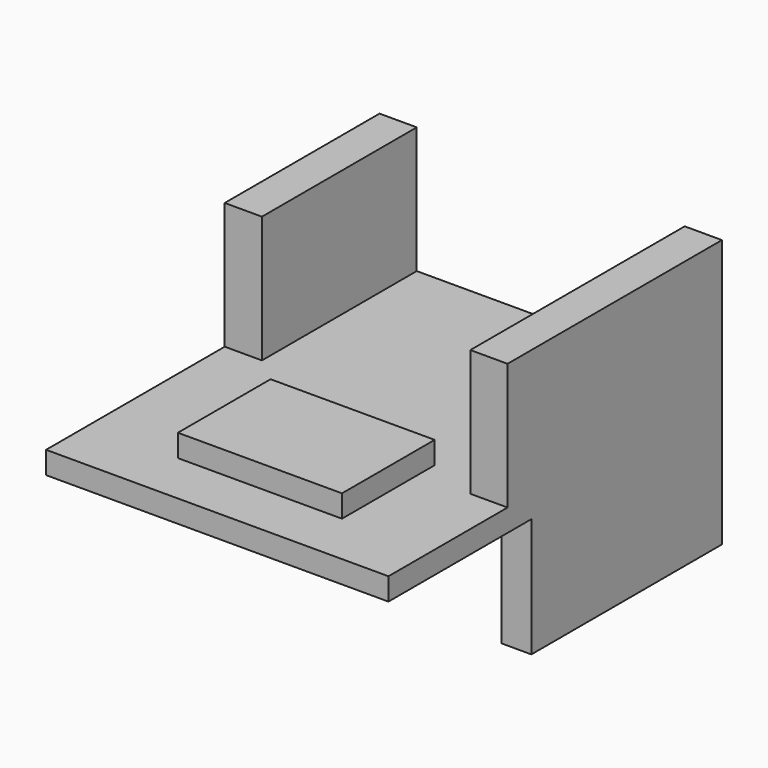
from build123d import *

# Parameters (mm, degrees)
F0_W     = 23
F0_H     = 28
F1_DEPTH = 1.5
F2_W     = 2.5
F2_H     = 13
F2_H_2   = 18
F3_DEPTH = 8.5
F4_W     = 2
F4_H     = 16
F4_H_2   = 11
F5_DEPTH = 8
F6_W     = 11.023622
F6_H     = 7.782471
F7_DEPTH = 1.5


with BuildPart() as f1:
    # F0 (on Top) → F1 (new body)
    with BuildSketch(Plane.XY):
        Rectangle(F0_W, F0_H)
    extrude(amount=F1_DEPTH)

    # F2 (on face) → F3 (join)
    with BuildSketch(Plane.XY.offset(1.5)):
        with Locations((-10.25, 7.5)):
            Rectangle(F2_W, F2_H)
        with Locations((10.25, 5)):
            Rectangle(F2_W, F2_H_2)
    extrude(amount=F3_DEPTH)

    # F4 (on face) → F5 (join)
    with BuildSketch(Plane(origin=(0, 0, 0), x_dir=(1, 0, 0), z_dir=(0, 0, -1))):
        with Locations((10.5, -6)):
            Rectangle(F4_W, F4_H)
        with Locations((-10.5, -8.5)):
            Rectangle(F4_W, F4_H_2)
    extrude(amount=F5_DEPTH)

    # F6 (on face) → F7 (join)
    with BuildSketch(Plane.XY.offset(1.5)):
        with Locations((0, -6.526084)):
            Rectangle(F6_W, F6_H)
    extrude(amount=F7_DEPTH)


solid = f1.part
